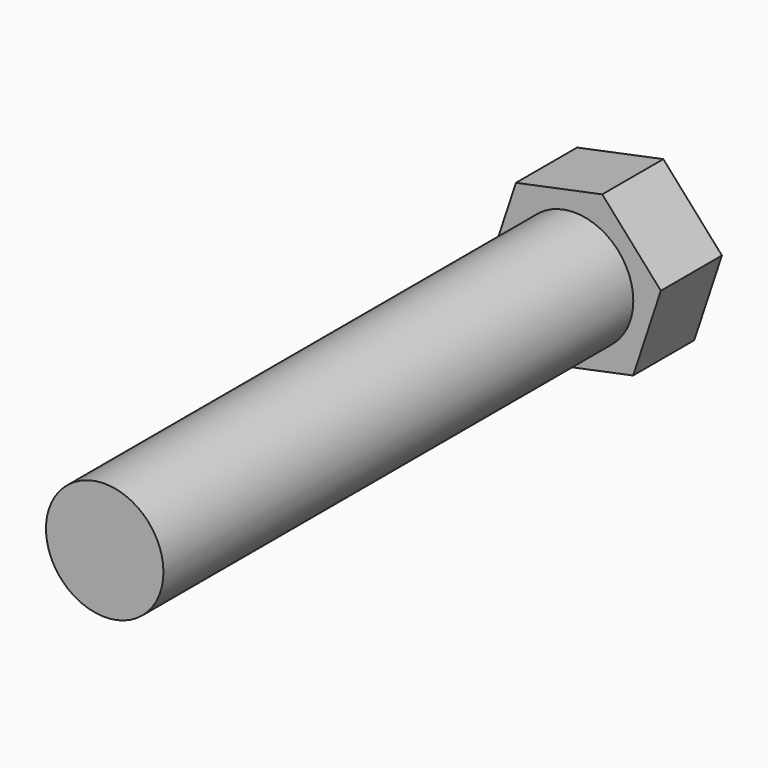
from build123d import *

# Parameters (mm, degrees)
F2_R     = 6.35
F0_DEPTH = 63.5
F1_DEPTH = 8.255


with BuildPart() as f0:
    # F2 (on Front) → F0 (new body)
    with BuildSketch(Plane.XZ):
        Circle(F2_R)
    extrude(amount=F0_DEPTH)

    # F2 (on Front) → F1 (join)
    with BuildSketch(Plane.XZ):
        Polygon((-2.992629, -9.042666), (6.334864, -7.113025), (9.327492, 1.92964), (2.992629, 9.042666), (-6.334864, 7.113025), (-9.327492, -1.92964), align=None)
        Circle(F2_R, mode=Mode.SUBTRACT)
        Circle(F2_R)
    extrude(amount=-F1_DEPTH)


solid = f0.part
